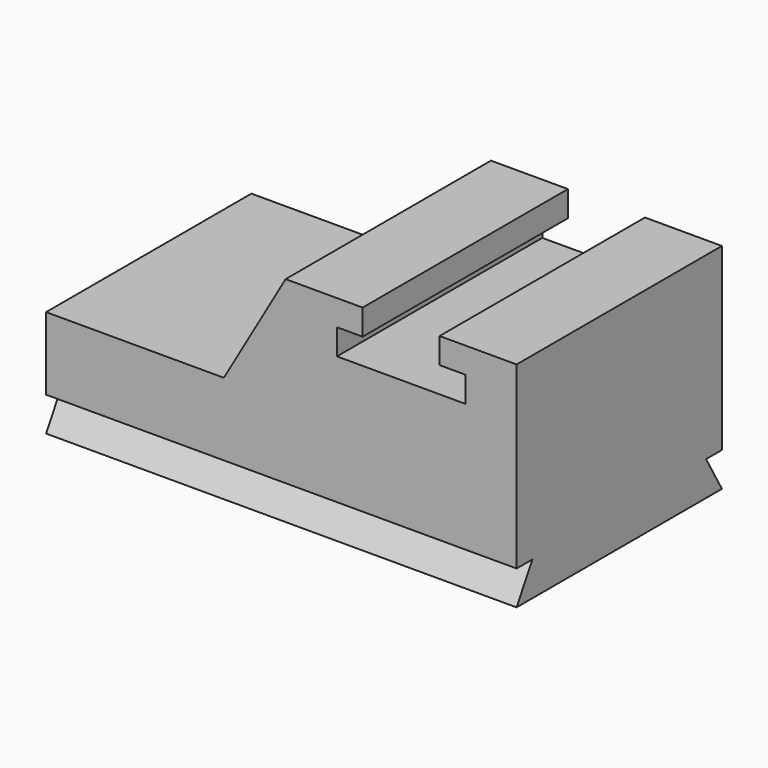
from build123d import *

# Parameters (mm, degrees)
F1_DEPTH = 1524
F5_DEPTH = 2794.001
F7_DEPTH = 2794.001


with BuildPart() as f1:
    # F0 (on Front) → F1 (new body)
    with BuildSketch(Plane.XZ):
        Polygon((0, 635), (0, 0), (2794, 0), (2794, 1270), (2336.8, 1270), (2336.8, 1117.6), (2489.2, 1117.6), (2489.2, 965.2), (1727.2, 965.2), (1727.2, 1117.6), (1879.6, 1117.6), (1879.6, 1270), (1422.4, 1270), (1055.782579, 635), align=None)
    extrude(amount=-F1_DEPTH)

    # F4 (on face) → F5 (cut, through all)
    with BuildSketch(Plane(origin=(0, 0, 0), x_dir=(0, -1, 0), z_dir=(-1, 0, 0))):
        Polygon((-117.317575, 203.2), (0, 0), (0, 203.2), align=None)
    extrude(amount=-F5_DEPTH, mode=Mode.SUBTRACT)

    # F6 (on face) → F7 (cut, through all)
    with BuildSketch(Plane(origin=(0, 0, 0), x_dir=(0, -1, 0), z_dir=(-1, 0, 0))):
        Polygon((-1524, 203.2), (-1524, 0), (-1406.682425, 203.2), align=None)
    extrude(amount=-F7_DEPTH, mode=Mode.SUBTRACT)


solid = f1.part
